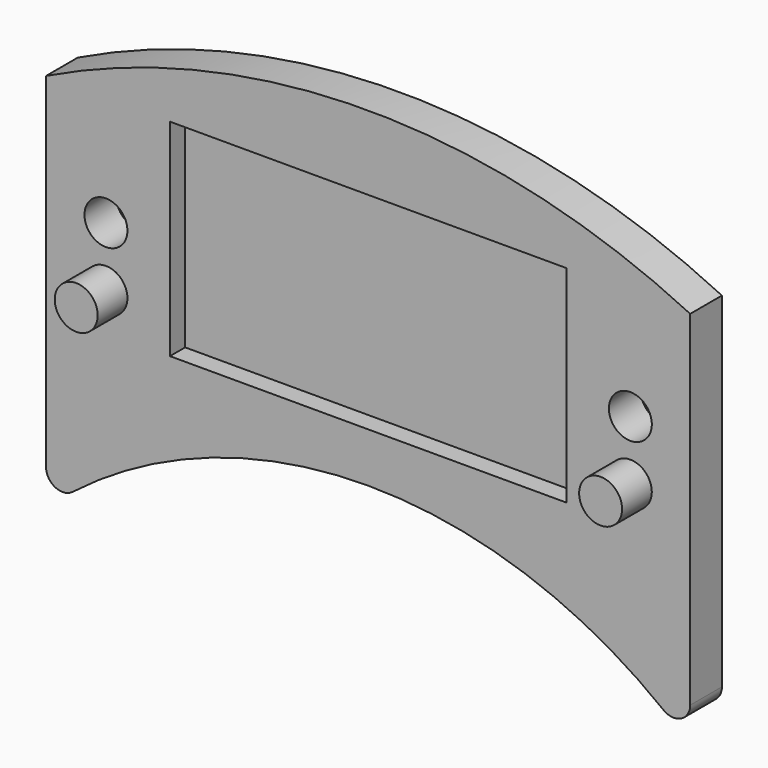
from build123d import *

# Parameters (mm, degrees)
F1_DEPTH = 4.8
F2_R     = 2.6
F3_DEPTH = 4.5
F4_R     = 2.6
F5_DEPTH = 4.8
F6_R     = 2
F7_W     = 48
F7_H     = 2.3
F8_DEPTH = 25


with BuildPart() as f1:
    # F0 (on Front) → F1 (new body)
    with BuildSketch(Plane.XZ):
        with BuildLine():
            Line((-39, 0), (-39, -46))
            ThreePointArc((-39, -46), (0, -31), (39, -46))
            Line((39, -46), (39, 0))
            ThreePointArc((39, 0), (0, 9), (-39, 0))
        make_face()
    extrude(amount=-F1_DEPTH)

    # F2 (on face) → F3 (join)
    with BuildSketch(Plane.XZ):
        with Locations((-31.75, -20.5)):
            Circle(F2_R)
        with Locations((31.75, -20.5)):
            Circle(F2_R)
    extrude(amount=F3_DEPTH)

    # F4 (on face) → F5 (cut, through all)
    with BuildSketch(Plane(origin=(0, 4.8, 0), x_dir=(-1, 0, 0), z_dir=(0, 1, 0))):
        with Locations((-31.75, -13.3)):
            Circle(F4_R)
        with Locations((31.75, -13.3)):
            Circle(F4_R)
    extrude(amount=-F5_DEPTH, mode=Mode.SUBTRACT)

    # F6
    f6_edges = [f1.edges().sort_by_distance(p)[0] for p in [
        (-39, 2.4, -46),
        (39, 2.4, -46),
    ]]
    fillet(f6_edges, radius=F6_R)

    # F7 (on Top) → F8 (cut)
    with BuildSketch(Plane.XY):
        with Locations((0, 1.15)):
            Rectangle(F7_W, F7_H)
    extrude(amount=-F8_DEPTH, mode=Mode.SUBTRACT)


solid = f1.part
